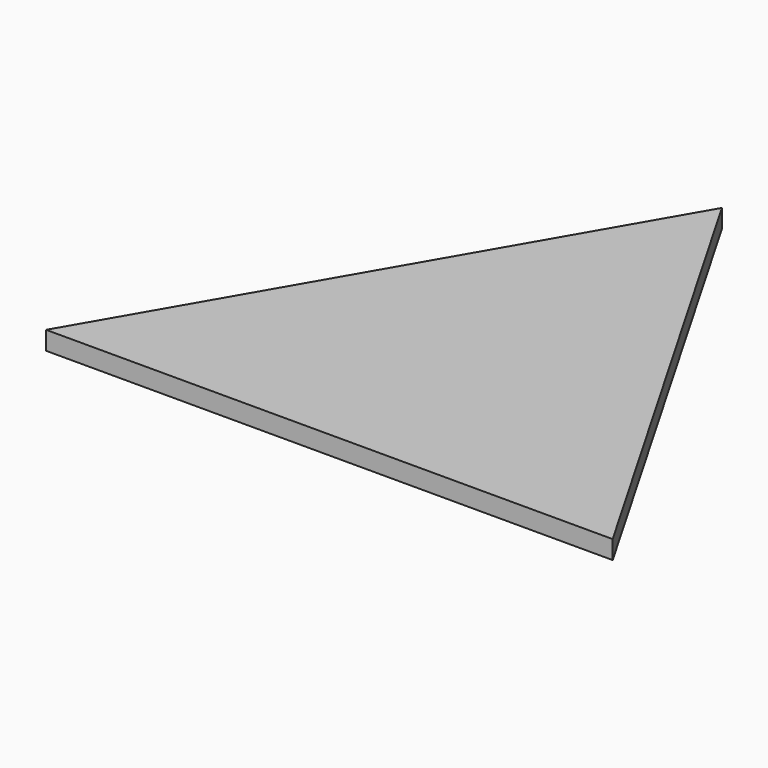
from build123d import *

# Parameters (mm, degrees)
PAD011_DEPTH = 10


with BuildPart() as part:
    # Sketch011 → Pad011 (new body)
    with BuildSketch(Plane.XY):
        Polygon((-47.205635, 137.739944), (-200.437314, -127.665109), (106.026044, -127.665109), align=None)
    extrude(amount=-PAD011_DEPTH)


with BuildPart() as part_1:
    # Body011 placement: moved
    add(part.part.moved(Location((200.437314, 127.665109, 0))))


solid = part_1.part
